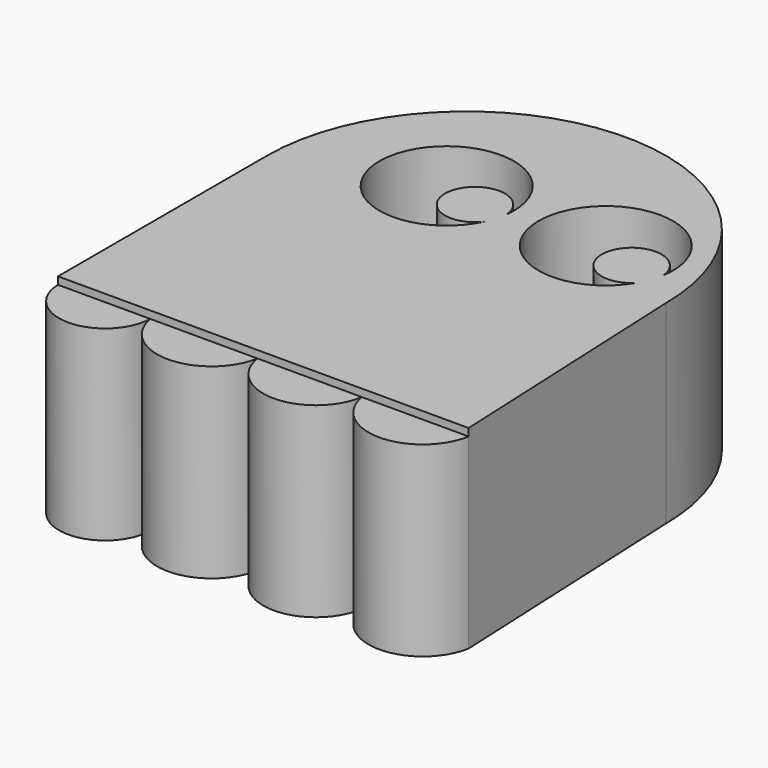
from build123d import *

# Parameters (mm, degrees)
F1_DEPTH = 25
F2_DEPTH = 26


with BuildPart() as f1:
    # F0 (on Top) → F1 (new body)
    with BuildSketch(Plane.XY):
        with BuildLine():
            Line((28.28632, -35), (26.71368, 0))
            ThreePointArc((26.71368, 0), (0, 26.71368), (-26.71368, 0))
            Line((-26.71368, 0), (-26.71368, -35))
            Line((-26.71368, -35), (-14.361817, -35))
            Line((-14.361817, -35), (0, -35))
            Line((0, -35), (13.973511, -35))
            Line((13.973511, -35), (28.28632, -35))
        make_face()
        with BuildLine():
            ThreePointArc((0.357959, 2.506888), (-16.405143, 8.900753), (1.169173, 5.291524))
            ThreePointArc((1.169173, 5.291524), (-6.655875, 6.06062), (0.357959, 2.506888))
        make_face(mode=Mode.SUBTRACT)
        with BuildLine():
            ThreePointArc((21.466499, 1.645763), (5.236335, 9.255928), (22.574534, 4.704041))
            ThreePointArc((22.574534, 4.704041), (14.823874, 5.782296), (21.466499, 1.645763))
        make_face(mode=Mode.SUBTRACT)
        with BuildLine():
            Line((-14.361817, -35), (-26.71368, -35))
            ThreePointArc((-26.71368, -35), (-26.67851, -35.426676), (-26.629713, -35.85201))
            ThreePointArc((-26.629713, -35.85201), (-20.10968, -40.985153), (-14.361817, -35))
        make_face()
        with BuildLine():
            Line((0, -35), (-14.361817, -35))
            ThreePointArc((-14.361817, -35), (-7.180909, -41), (0, -35))
        make_face()
        with BuildLine():
            ThreePointArc((0, -35), (6.986756, -41), (13.973511, -35))
            Line((13.973511, -35), (0, -35))
        make_face()
        with BuildLine():
            ThreePointArc((13.973511, -35), (21.129916, -41), (28.28632, -35))
            Line((28.28632, -35), (13.973511, -35))
        make_face()
    extrude(amount=F1_DEPTH)


with BuildPart() as f2:
    # F0 (on Top) → F2 (new body)
    with BuildSketch(Plane.XY):
        with BuildLine():
            Line((28.28632, -35), (26.71368, 0))
            ThreePointArc((26.71368, 0), (0, 26.71368), (-26.71368, 0))
            Line((-26.71368, 0), (-26.71368, -35))
            Line((-26.71368, -35), (-14.361817, -35))
            Line((-14.361817, -35), (0, -35))
            Line((0, -35), (13.973511, -35))
            Line((13.973511, -35), (28.28632, -35))
        make_face()
        with BuildLine():
            ThreePointArc((0.357959, 2.506888), (-16.405143, 8.900753), (1.169173, 5.291524))
            ThreePointArc((1.169173, 5.291524), (-6.655875, 6.06062), (0.357959, 2.506888))
        make_face(mode=Mode.SUBTRACT)
        with BuildLine():
            ThreePointArc((21.466499, 1.645763), (5.236335, 9.255928), (22.574534, 4.704041))
            ThreePointArc((22.574534, 4.704041), (14.823874, 5.782296), (21.466499, 1.645763))
        make_face(mode=Mode.SUBTRACT)
        with BuildLine():
            Line((28.28632, -35), (26.71368, 0))
            ThreePointArc((26.71368, 0), (0, 26.71368), (-26.71368, 0))
            Line((-26.71368, 0), (-26.71368, -35))
            Line((-26.71368, -35), (-14.361817, -35))
            Line((-14.361817, -35), (0, -35))
            Line((0, -35), (13.973511, -35))
            Line((13.973511, -35), (28.28632, -35))
        make_face()
        with BuildLine():
            ThreePointArc((0.357959, 2.506888), (-16.405143, 8.900753), (1.169173, 5.291524))
            ThreePointArc((1.169173, 5.291524), (-6.655875, 6.06062), (0.357959, 2.506888))
        make_face(mode=Mode.SUBTRACT)
        with BuildLine():
            ThreePointArc((21.466499, 1.645763), (5.236335, 9.255928), (22.574534, 4.704041))
            ThreePointArc((22.574534, 4.704041), (14.823874, 5.782296), (21.466499, 1.645763))
        make_face(mode=Mode.SUBTRACT)
    extrude(amount=F2_DEPTH)


solid = Compound([f1.part, f2.part])
